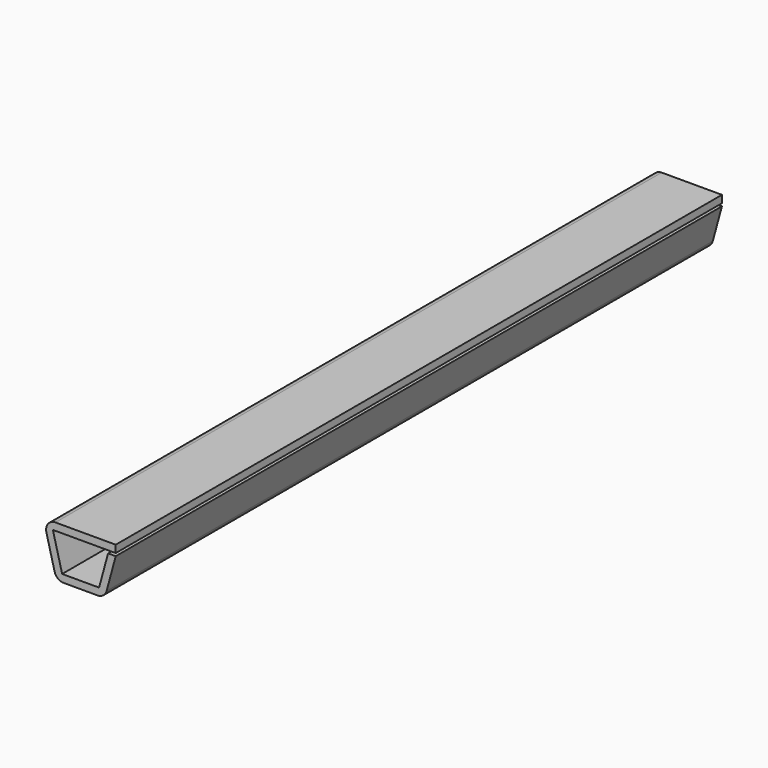
from build123d import *

# Parameters (mm, degrees)
F1_DEPTH = 205


with BuildPart() as f1:
    # F0 (on Front) → F1 (new body)
    with BuildSketch(Plane.XZ):
        with BuildLine():
            Line((3.50069, -7.53608), (-6.49931, -7.53608))
            Line((-6.49931, -7.53608), (-8.99931, 2.146378))
            Line((-8.99931, 2.146378), (8.00069, 2.146378))
            Line((8.00069, 2.146378), (8.00069, 4.146378))
            Line((8.00069, 4.146378), (-8.302173, 4.146378))
            ThreePointArc((-8.302173, 4.146378), (-10.310219, 3.161804), (-10.761517, 0.971378))
            Line((-10.761517, 0.971378), (-8.540372, -7.63108))
            ThreePointArc((-8.540372, -7.63108), (-7.636454, -9.004126), (-6.081028, -9.53608))
            Line((-6.081028, -9.53608), (3.087689, -9.53608))
            ThreePointArc((3.087689, -9.53608), (4.630754, -9.01364), (5.539049, -7.661237))
            Line((5.539049, -7.661237), (8.00069, 1.410868))
            Line((8.00069, 1.410868), (5.928371, 1.410868))
            Line((5.928371, 1.410868), (3.50069, -7.53608))
        make_face()
    extrude(amount=F1_DEPTH)


solid = f1.part
